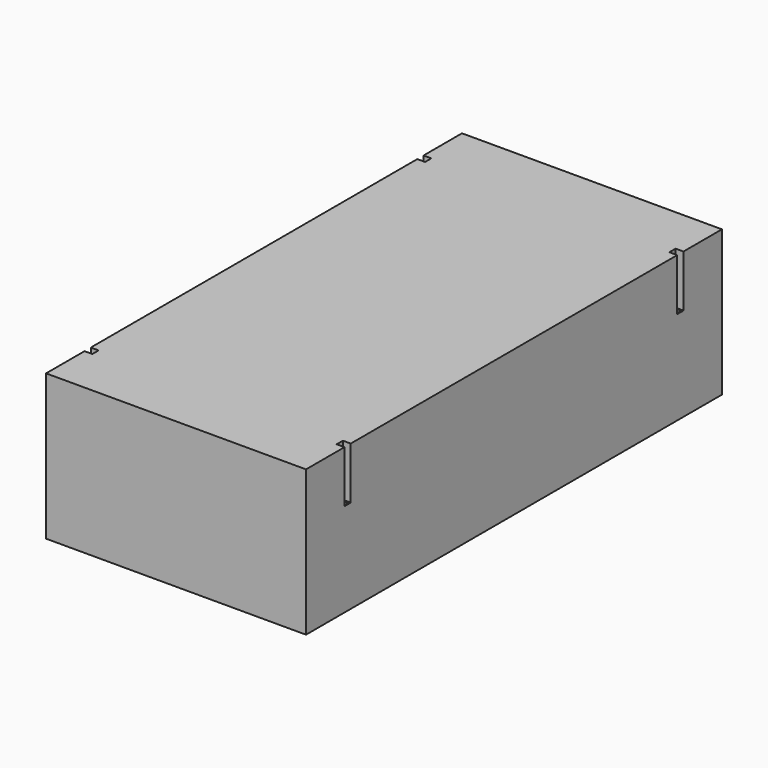
from build123d import *

# Parameters (mm, degrees)
F0_W     = 5000
F0_H     = 10000
F1_DEPTH = 2800
F2_W     = 150
F2_H     = 150
F3_DEPTH = 1000
F4_W     = 100
F4_H     = 100
F5_DEPTH = 1800


with BuildPart() as f1:
    # F0 (on Top) → F1 (new body)
    with BuildSketch(Plane.XY):
        with Locations((53.413546, 95.638355)):
            Rectangle(F0_W, F0_H)
    extrude(amount=F1_DEPTH)

    # F2 (on face) → F3 (cut)
    with BuildSketch(Plane.XY.offset(2800)):
        with Locations((-2371.586454, 4095.638355)):
            Rectangle(F2_W, F2_H)
        with Locations((2478.413546, 4095.638355)):
            Rectangle(F2_W, F2_H)
        with Locations((2478.413546, -3904.361645)):
            Rectangle(F2_W, F2_H)
        with Locations((-2371.586454, -3904.361645)):
            Rectangle(F2_W, F2_H)
    extrude(amount=-F3_DEPTH, mode=Mode.SUBTRACT)

    # F4 (on face) → F5 (cut)
    with BuildSketch(Plane.XY.offset(1800)):
        with Locations((2478.413546, 4095.638355)):
            Rectangle(F4_W, F4_H)
        with Locations((-2371.586454, 4095.638355)):
            Rectangle(F4_W, F4_H)
        with Locations((-2371.586454, -3904.361645)):
            Rectangle(F4_W, F4_H)
        with Locations((2478.413546, -3904.361645)):
            Rectangle(F4_W, F4_H)
    extrude(amount=-F5_DEPTH, mode=Mode.SUBTRACT)


solid = f1.part
